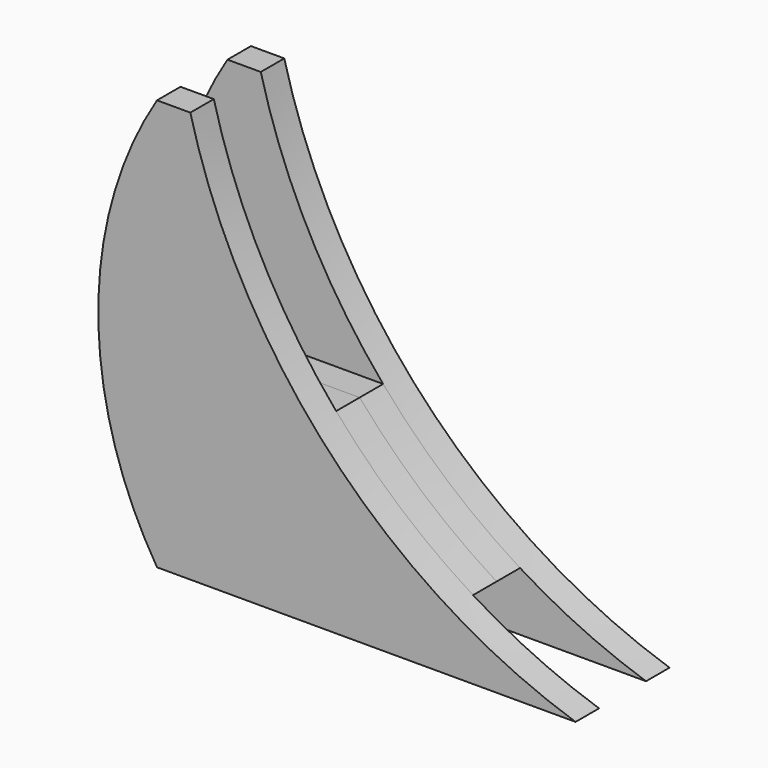
from build123d import *

# Parameters (mm, degrees)
F1_DEPTH = 6.35
F3_DEPTH = 6.35
F4_DEPTH = 6.35
F6_DEPTH = 6.35


with BuildPart() as f1:
    # F0 (on Front) → F1 (new body)
    with BuildSketch(Plane.XZ):
        with BuildLine():
            ThreePointArc((103.2192627102, -88.9), (50.2069949475, -55.0926211004), (19.9077787579, 0))
            Line((19.9077787579, 0), (12.7, 0))
            ThreePointArc((12.7, 0), (3.2372788554, -21.3356511015), (0, -44.45))
            ThreePointArc((0, -44.45), (3.2372788554, -67.5643488985), (12.7, -88.9))
            Line((12.7, -88.9), (103.2192627102, -88.9))
        make_face()
    extrude(amount=F1_DEPTH)

    # F2 (on face) → F3 (join)
    with BuildSketch(Plane.XZ.offset(6.35)):
        with BuildLine():
            ThreePointArc((0.2399648381, -50.8), (2.2395472881, -63.7332634128), (6.220515932, -76.2))
            Line((6.220515932, -76.2), (75.9735986694, -76.2))
            ThreePointArc((75.9735986694, -76.2), (60.1873595892, -64.6437452498), (46.3633556248, -50.8))
            Line((46.3633556248, -50.8), (0.2399648381, -50.8))
        make_face()
    extrude(amount=F3_DEPTH)


with BuildPart() as f4:
    # F4 (new): a face of the model
    f4_faces = [f1.part.faces().sort_by_distance(p)[0] for p in [
        (31.6809192164, -12.7, -64.3648284456),
    ]]
    extrude(f4_faces, amount=F4_DEPTH)

    # F5 (on face) → F6 (join)
    with BuildSketch(Plane.XZ.offset(19.05)):
        with BuildLine():
            Line((19.9077787579, 0), (12.7, 0))
            ThreePointArc((12.7, 0), (0, -44.45), (12.7, -88.9))
            Line((12.7, -88.9), (103.2192627102, -88.9))
            ThreePointArc((103.2192627102, -88.9), (50.2069949475, -55.0926211004), (19.9077787579, 0))
        make_face()
    extrude(amount=F6_DEPTH)


solid = Compound([f1.part, f4.part])
